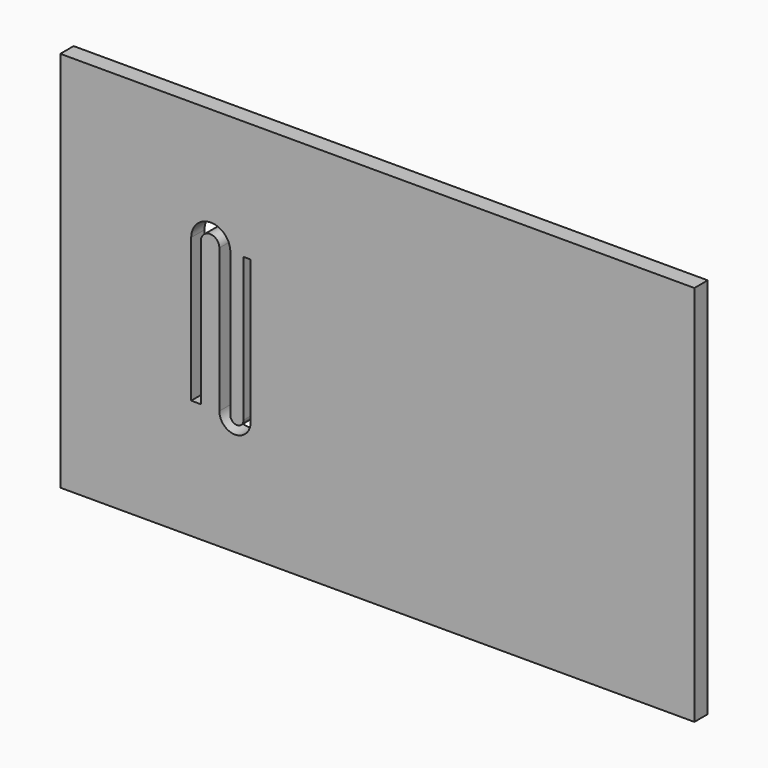
from build123d import *

# Parameters (mm, degrees)
F0_W     = 76.127068
F0_H     = 45.85968
F1_DEPTH = 2
F3_DEPTH = 2.001


with BuildPart() as f1:
    # F0 (on Front) → F1 (new body)
    with BuildSketch(Plane.XZ):
        Rectangle(F0_W, F0_H)
    extrude(amount=F1_DEPTH)

    # F2 (on face) → F3 (cut, through all)
    with BuildSketch(Plane.XZ.offset(2)):
        with BuildLine():
            Line((-22.34818, -8.622167), (-21.188844, -8.622167))
            Line((-21.188844, -8.622167), (-21.188844, 8.622167))
            ThreePointArc((-21.188844, 8.622167), (-20.0769, 9.734111), (-18.964956, 8.622167))
            Line((-18.964956, 8.622167), (-18.964956, -8.622167))
            ThreePointArc((-18.964956, -8.622167), (-17.090918, -10.496205), (-15.21688, -8.622167))
            Line((-15.21688, -8.622167), (-15.21688, 8.622167))
            Line((-15.21688, 8.622167), (-16.059408, 8.622167))
            Line((-16.059408, 8.622167), (-16.059408, -8.622167))
            ThreePointArc((-16.059408, -8.622167), (-16.852695, -9.415454), (-17.645983, -8.622167))
            Line((-17.645983, -8.622167), (-17.645983, 8.622167))
            ThreePointArc((-17.645983, 8.622167), (-19.997082, 10.973265), (-22.34818, 8.622167))
            Line((-22.34818, 8.622167), (-22.34818, -8.622167))
        make_face()
    extrude(amount=-F3_DEPTH, mode=Mode.SUBTRACT)


solid = f1.part
